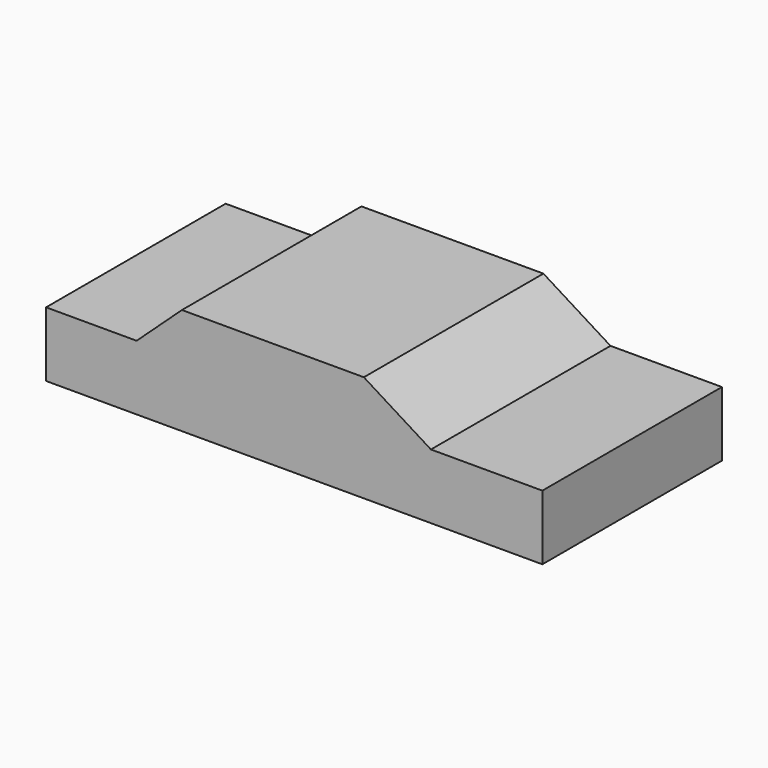
from build123d import *

# Parameters (mm, degrees)
F2_DEPTH = 55


with BuildPart() as f2:
    # F1 (on face) → F2 (new body)
    with BuildSketch(Plane.XZ):
        with BuildLine():
            ThreePointArc((44.7364263237, 0), (51.6707431525, 6.576540475), (58.6050599813, 0))
            Line((58.6050599813, 0), (65.6081959605, 0))
            Line((65.6081959605, 0), (65.6081959605, 15.8953191712))
            Line((65.6081959605, 15.8953191712), (38.2981188595, 15.8953191712))
            Line((38.2981188595, 15.8953191712), (33.3908423781, 15.8953191712))
            Line((33.3908423781, 15.8953191712), (-29.3370001018, 15.8953191712))
            Line((-29.3370001018, 15.8953191712), (-33.8175594807, 15.8953191712))
            Line((-33.8175594807, 15.8953191712), (-56.007001549, 15.8953191712))
            Line((-56.007001549, 15.8953191712), (-56.007001549, 0))
            Line((-56.007001549, 0), (-50.2426885068, 0))
            ThreePointArc((-50.2426885068, 0), (-43.83370094, 7.1925667007), (-37.4247133732, 0))
            Line((-37.4247133732, 0), (44.7364263237, 0))
        make_face()
    extrude(amount=F2_DEPTH)


with BuildPart() as f2b:
    # F0 (on Front) → F2, piece 2 (new body)
    with BuildSketch(Plane.XZ):
        Polygon((-56.007001549, 15.8953191712), (-56.007001549, 0), (65.6081959605, 0), (65.6081959605, 15.8953191712), (38.2981188595, 15.8953191712), (33.3908423781, 15.8953191712), (-29.3370001018, 15.8953191712), (-33.8175594807, 15.8953191712), align=None)
        Polygon((-22.7228403091, 26.1366013438), (-33.8175594807, 15.8953191712), (-29.3370001018, 15.8953191712), (33.3908423781, 15.8953191712), (38.2981188595, 15.8953191712), (21.8694005162, 26.1366013438), align=None)
    extrude(amount=F2_DEPTH)


solid = Compound([f2.part, f2b.part])
